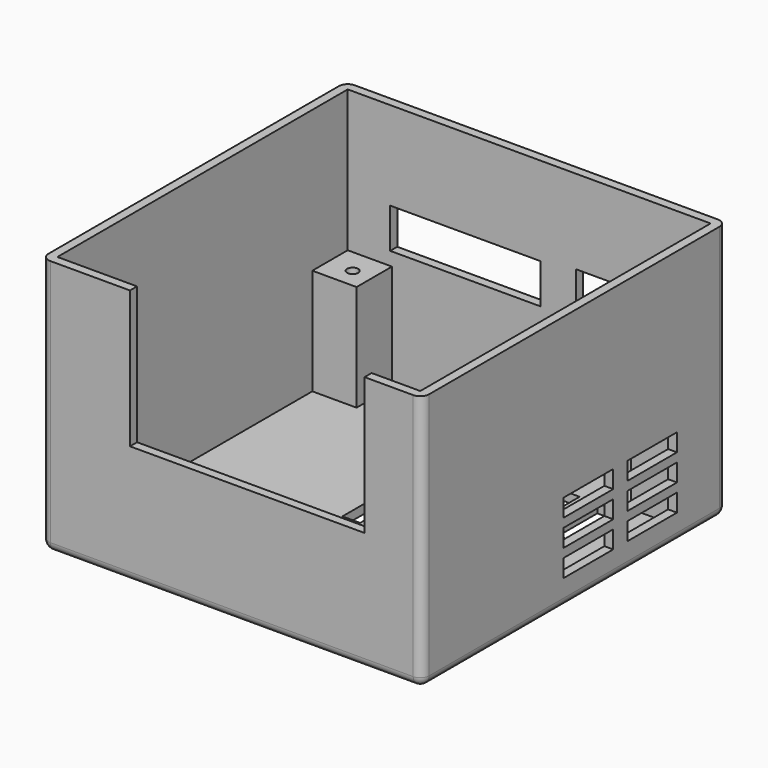
from build123d import *

# Parameters (mm, degrees)
SKETCH_W        = 43
SKETCH_H        = 43
PAD_DEPTH       = 29
SKETCH001_W     = 41
SKETCH001_H     = 41
POCKET_DEPTH    = 28
SKETCH002_W     = 5
SKETCH002_H     = 5
PAD001_DEPTH    = 12
SKETCH003_R     = 0.625
POCKET001_DEPTH = 10
SKETCH004_W     = 26.5
SKETCH004_H     = 16
POCKET002_DEPTH = 1
SKETCH005_W     = 10
SKETCH005_H     = 5
SKETCH005_W_2   = 17
SKETCH005_H_2   = 4.5
POCKET003_DEPTH = 1
SKETCH006_W     = 2
SKETCH006_H     = 7
POCKET004_DEPTH = 1
FILLET_R        = 1
FILLET001_R     = 1
SKETCH007_W     = 7
SKETCH007_H     = 2
POCKET005_DEPTH = 1


with BuildPart() as part:
    # Sketch → Pad (new body)
    with BuildSketch(Plane.XY):
        Rectangle(SKETCH_W, SKETCH_H)
    extrude(amount=PAD_DEPTH)

    # Sketch001 (on Face6 of Pad) → Pocket (cut)
    with BuildSketch(Plane.XY.offset(29)):
        Rectangle(SKETCH001_W, SKETCH001_H)
    extrude(amount=-POCKET_DEPTH, mode=Mode.SUBTRACT)

    # Sketch002 (on Face11 of Pocket) → Pad001 (join)
    with BuildSketch(Plane.XY.offset(1)):
        with Locations((-18, 18)):
            Rectangle(SKETCH002_W, SKETCH002_H)
        with Locations((18, 18)):
            Rectangle(SKETCH002_W, SKETCH002_H)
        with Locations((-18, -18)):
            Rectangle(SKETCH002_W, SKETCH002_H)
        with Locations((18, -18)):
            Rectangle(SKETCH002_W, SKETCH002_H)
    extrude(amount=PAD001_DEPTH)

    # Sketch003 (on DatumPlane) → Pocket001 (cut)
    with BuildSketch(Plane.XY.offset(13)):
        with Locations((-17.7, 17.7)):
            Circle(SKETCH003_R)
        with Locations((17.7, 17.7)):
            Circle(SKETCH003_R)
        with Locations((-17.7, -17.7)):
            Circle(SKETCH003_R)
        with Locations((17.7, -17.7)):
            Circle(SKETCH003_R)
    extrude(amount=-POCKET001_DEPTH, mode=Mode.SUBTRACT)

    # Sketch004 (on Face6 of Pocket001) → Pocket002 (cut)
    with BuildSketch(Plane.XZ.offset(21.5)):
        with Locations((1.75, 21.5)):
            Rectangle(SKETCH004_W, SKETCH004_H)
    extrude(amount=-POCKET002_DEPTH, mode=Mode.SUBTRACT)

    # Sketch005 (on Face1 of Pocket002) → Pocket003 (cut)
    with BuildSketch(Plane(origin=(0, 21.5, 0), x_dir=(-1, 0, 0), z_dir=(0, 1, 0))):
        with Locations((-10.3, 17)):
            Rectangle(SKETCH005_W, SKETCH005_H)
        with Locations((7.2, 16.75)):
            Rectangle(SKETCH005_W_2, SKETCH005_H_2)
    extrude(amount=-POCKET003_DEPTH, mode=Mode.SUBTRACT)

    # Sketch006 (on Face3 of Pocket003) → Pocket004 (cut)
    with BuildSketch(Plane(origin=(0, 0, 0), x_dir=(1, 0, 0), z_dir=(0, 0, -1))):
        with Locations((13.5, -11)):
            Rectangle(SKETCH006_W, SKETCH006_H)
        with Locations((13.5, -2)):
            Rectangle(SKETCH006_W, SKETCH006_H)
        with Locations((9.5, -11)):
            Rectangle(SKETCH006_W, SKETCH006_H)
        with Locations((9.5, -2)):
            Rectangle(SKETCH006_W, SKETCH006_H)
        with Locations((5.5, -2)):
            Rectangle(SKETCH006_W, SKETCH006_H)
        with Locations((5.5, -11)):
            Rectangle(SKETCH006_W, SKETCH006_H)
        with Locations((1.5, -2)):
            Rectangle(SKETCH006_W, SKETCH006_H)
        with Locations((1.5, -11)):
            Rectangle(SKETCH006_W, SKETCH006_H)
        with Locations((-2.5, -2)):
            Rectangle(SKETCH006_W, SKETCH006_H)
        with Locations((-2.5, -11)):
            Rectangle(SKETCH006_W, SKETCH006_H)
    extrude(amount=-POCKET004_DEPTH, mode=Mode.SUBTRACT)

    # Fillet
    fillet_edges = [part.edges().sort_by_distance(p)[0] for p in [
        (-21.5, -21.5, 14.5),
        (21.5, -21.5, 14.5),
        (21.5, 21.5, 14.5),
        (-21.5, 21.5, 14.5),
    ]]
    fillet(fillet_edges, radius=FILLET_R)

    # Fillet001
    fillet001_edges = [part.edges().sort_by_distance(p)[0] for p in [
        (21.5, 0, 0),
        (0, -21.5, 0),
        (0, 21.5, 0),
        (-21.5, 0, 0),
    ]]
    fillet(fillet001_edges, radius=FILLET001_R)

    # Sketch007 (on Face22 of Fillet001) → Pocket005 (cut)
    with BuildSketch(Plane.YZ.offset(21.5)):
        with Locations((2, 10)):
            Rectangle(SKETCH007_W, SKETCH007_H)
        with Locations((11, 10)):
            Rectangle(SKETCH007_W, SKETCH007_H)
        with Locations((2, 7)):
            Rectangle(SKETCH007_W, SKETCH007_H)
        with Locations((11, 7)):
            Rectangle(SKETCH007_W, SKETCH007_H)
        with Locations((2, 4)):
            Rectangle(SKETCH007_W, SKETCH007_H)
        with Locations((11, 4)):
            Rectangle(SKETCH007_W, SKETCH007_H)
    extrude(amount=-POCKET005_DEPTH, mode=Mode.SUBTRACT)


solid = part.part
